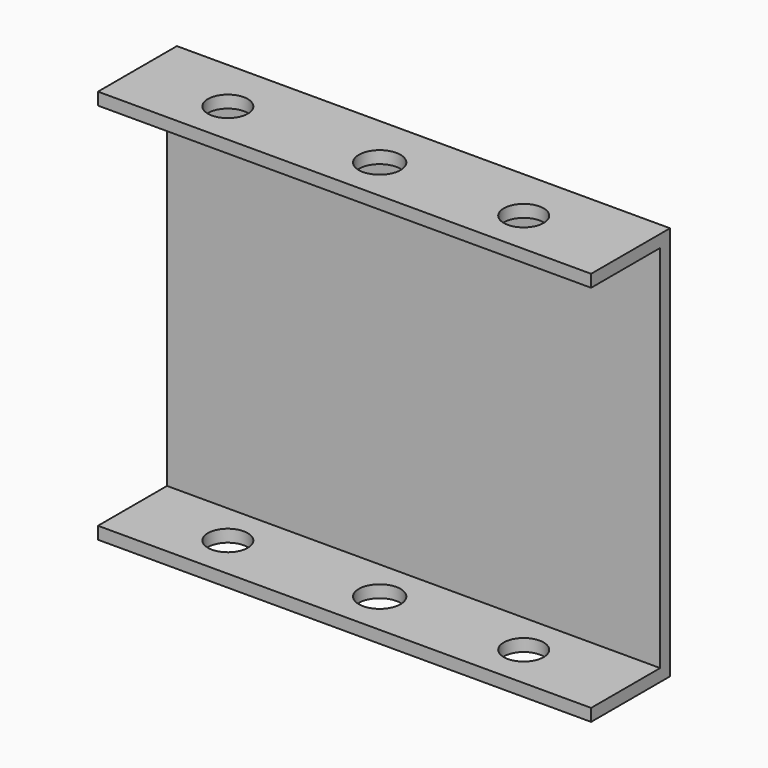
from build123d import *

# Parameters (mm, degrees)
F1_DEPTH      = 31.75
F2_R          = 2.6809788516
F2_R_2        = 2.5673909314
F2_R_3        = 2.5673893519
F3_DEPTH      = 25.401
F3_DEPTH_BACK = 25.401


with BuildPart() as f1:
    # F0 (on Right) → F1 (new body, symmetric)
    with BuildSketch(Plane.YZ):
        Polygon((-0.79375, 23.8125), (-0.79375, 0), (0, 0), (0.79375, 0), (0.79375, 25.4), (-11.90625, 25.4), (-11.90625, 23.8125), align=None)
        Polygon((0, 0), (-0.79375, 0), (-0.79375, -23.8125), (-11.90625, -23.8125), (-11.90625, -25.4), (0.79375, -25.4), (0.79375, 0), align=None)
    extrude(amount=F1_DEPTH, both=True)

    # F2 (on Top) → F3 (cut, two sides)
    with BuildSketch(Plane.XY) as f3_sk:
        with Locations((0, -6.2541500665)):
            Circle(F2_R)
        with Locations((18.5498315841, -6.2541500665)):
            Circle(F2_R_2)
        with Locations((-19.5501670241, -6.2541500665)):
            Circle(F2_R_3)
    extrude(amount=-F3_DEPTH, mode=Mode.SUBTRACT)
    extrude(f3_sk.sketch, amount=F3_DEPTH_BACK, mode=Mode.SUBTRACT)


solid = f1.part
